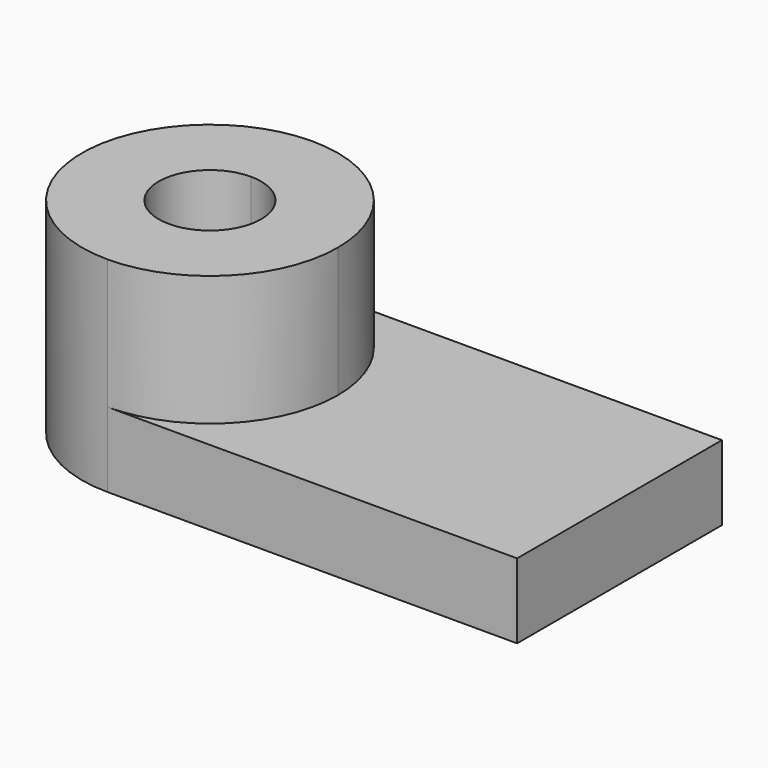
from build123d import *

# Parameters (mm, degrees)
F2_DEPTH = 7.30791
F3_DEPTH = 20


with BuildPart() as f2:
    # F0 (on Top) → F2 (new body)
    with BuildSketch(Plane.XY):
        with BuildLine():
            Line((-20, -12.5), (20, -12.5))
            Line((20, -12.5), (20, 12.5))
            Line((20, 12.5), (-20, 12.5))
            ThreePointArc((-20, 12.5), (-11.161165, 8.838835), (-7.5, 0))
            ThreePointArc((-7.5, 0), (-11.161165, -8.838835), (-20, -12.5))
        make_face()
        with BuildLine():
            ThreePointArc((-20, 12.5), (-32.5, 0), (-20, -12.5))
            Line((-20, -12.5), (-20, -5))
            ThreePointArc((-20, -5), (-25, 0), (-20, 5))
            Line((-20, 5), (-20, 12.5))
        make_face()
        with BuildLine():
            Line((-20, -5), (-20, -12.5))
            ThreePointArc((-20, -12.5), (-11.161165, -8.838835), (-7.5, 0))
            ThreePointArc((-7.5, 0), (-11.161165, 8.838835), (-20, 12.5))
            Line((-20, 12.5), (-20, 5))
            ThreePointArc((-20, 5), (-16.464466, 3.535534), (-15, 0))
            ThreePointArc((-15, 0), (-16.464466, -3.535534), (-20, -5))
        make_face()
    extrude(amount=F2_DEPTH)

    # F0 (on Top) → F3 (join)
    with BuildSketch(Plane.XY):
        with BuildLine():
            Line((-20, -5), (-20, -12.5))
            ThreePointArc((-20, -12.5), (-11.161165, -8.838835), (-7.5, 0))
            ThreePointArc((-7.5, 0), (-11.161165, 8.838835), (-20, 12.5))
            Line((-20, 12.5), (-20, 5))
            ThreePointArc((-20, 5), (-16.464466, 3.535534), (-15, 0))
            ThreePointArc((-15, 0), (-16.464466, -3.535534), (-20, -5))
        make_face()
        with BuildLine():
            ThreePointArc((-20, 12.5), (-32.5, 0), (-20, -12.5))
            Line((-20, -12.5), (-20, -5))
            ThreePointArc((-20, -5), (-25, 0), (-20, 5))
            Line((-20, 5), (-20, 12.5))
        make_face()
    extrude(amount=F3_DEPTH)


solid = f2.part
